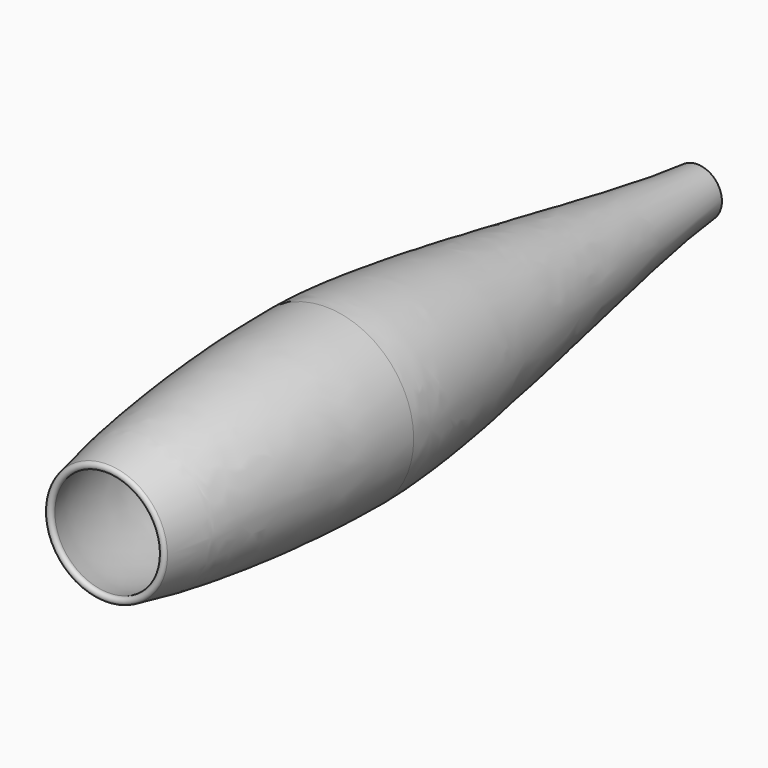
from build123d import *


with BuildPart() as f1:
    # F0 (on Top) → F1 (revolve)
    with BuildSketch(Plane.XY):
        with BuildLine():
            add(Edge.make_bspline(
                [(11.1125, 334.9498), (14.9228128734, 287.2610092163), (39.7383, 180.8039993048), (39.7383, 124.968)],
                knots=[0, 0, 0, 0, 211.9240259076, 211.9240259076, 211.9240259076, 211.9240259076], degree=3))
            Line((11.1125, 334.9498), (9.0805, 334.9498))
            add(Edge.make_bspline(
                [(9.0805, 334.9498), (13.0236390978, 287.2610092163), (37.7063, 181.3817471266), (37.7063, 124.968)],
                knots=[0, 0, 0, 0, 211.9240259076, 211.9240259076, 211.9240259076, 211.9240259076], degree=3))
            add(Edge.make_bspline(
                [(24.2150444251, 2.1344083266), (32.5180825361, 27.7920806149), (37.7063, 92.886762066), (37.7063, 124.968)],
                knots=[3.5505452865, 3.5505452865, 3.5505452865, 3.5505452865, 125.7747424093, 125.7747424093, 125.7747424093, 125.7747424093], degree=3))
            ThreePointArc((24.2150444251, 2.1344083266), (25.3608227894, 0.0515396814), (27.3699893714, 1.3221298981))
            add(Edge.make_bspline(
                [(39.7383, 124.968), (39.7383654602, 73.9401614559), (29.5621512843, 10.321643691), (31.7230686469, 23.8345897831), (27.3699893714, 1.3221298981)],
                knots=[0, 0, 0, 0, 0.6758175772, 0.9939128879, 0.9939128879, 0.9939128879, 0.9939128879], degree=3))
        make_face()
    revolve(axis=Axis((0, 167.4749, 0), (0, -1, 0)))


solid = f1.part
